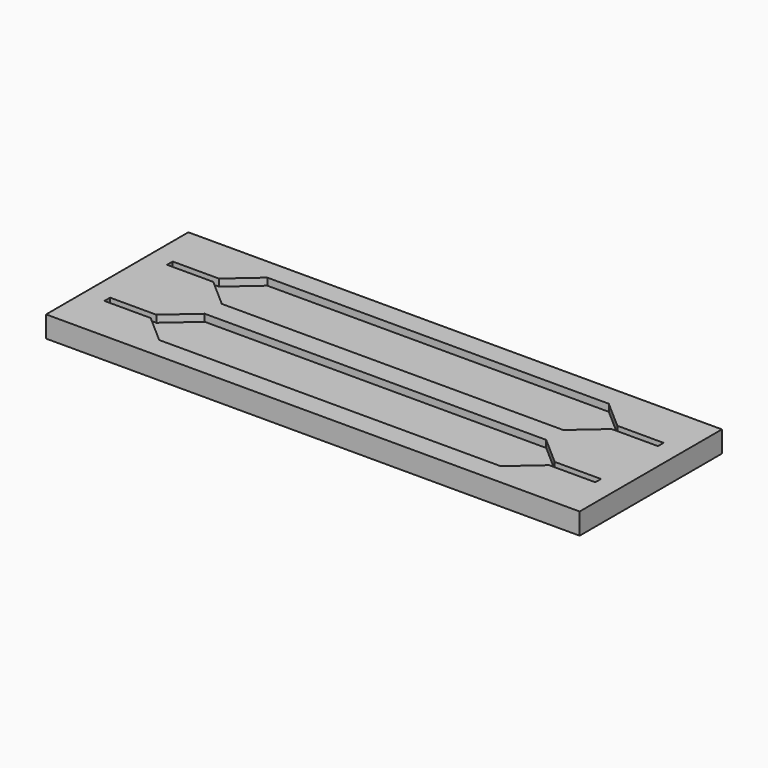
from build123d import *

# Parameters (mm, degrees)
F0_W     = 75
F0_H     = 25
F1_DEPTH = 3
F2_DEPTH = 1


with BuildPart() as f1:
    # F0 (on Top) → F1 (new body)
    with BuildSketch(Plane.XY):
        with Locations((-0.3449308872, 0.0735294118)):
            Rectangle(F0_W, F0_H)
        with BuildLine():
            ThreePointArc((-29.8784137004, -5.9264705882), (-37.3449308872, -5.4264705882), (-29.8784137004, -4.9264705882))
            Line((-29.8784137004, -4.9264705882), (-28.3449308872, -4.9264705882))
            Line((-28.3449308872, -4.9264705882), (-24.3449308872, -1.4264705882))
            Line((-24.3449308872, -1.4264705882), (23.6550691128, -1.4264705882))
            Line((23.6550691128, -1.4264705882), (27.6550691128, -4.9264705882))
            Line((27.6550691128, -4.9264705882), (29.1885519259, -4.9264705882))
            ThreePointArc((29.1885519259, -4.9264705882), (33.1556290351, -1.6848506549), (36.6550691128, -5.4264705882))
            ThreePointArc((36.6550691128, -5.4264705882), (33.1556290351, -9.1680905215), (29.1885519259, -5.9264705882))
            Line((29.1885519259, -5.9264705882), (27.6550691128, -5.9264705882))
            Line((27.6550691128, -5.9264705882), (23.6550691128, -9.4264705882))
            Line((23.6550691128, -9.4264705882), (-24.3449308872, -9.4264705882))
            Line((-24.3449308872, -9.4264705882), (-28.3449308872, -5.9264705882))
            Line((-28.3449308872, -5.9264705882), (-29.8784137004, -5.9264705882))
        make_face(mode=Mode.SUBTRACT)
        with BuildLine():
            ThreePointArc((-29.8784137004, 5.0735294118), (-37.3449308872, 5.5735294118), (-29.8784137004, 6.0735294118))
            Line((-29.8784137004, 6.0735294118), (-28.3449308872, 6.0735294118))
            Line((-28.3449308872, 6.0735294118), (-24.3449308872, 9.5735294118))
            Line((-24.3449308872, 9.5735294118), (23.6550691128, 9.5735294118))
            Line((23.6550691128, 9.5735294118), (27.6550691128, 6.0735294118))
            Line((27.6550691128, 6.0735294118), (29.1885519259, 6.0735294118))
            ThreePointArc((29.1885519259, 6.0735294118), (33.1556290351, 9.3151493451), (36.6550691128, 5.5735294118))
            ThreePointArc((36.6550691128, 5.5735294118), (33.1556290351, 1.8319094785), (29.1885519259, 5.0735294118))
            Line((29.1885519259, 5.0735294118), (27.6550691128, 5.0735294118))
            Line((27.6550691128, 5.0735294118), (23.6550691128, 1.5735294118))
            Line((23.6550691128, 1.5735294118), (-24.3449308872, 1.5735294118))
            Line((-24.3449308872, 1.5735294118), (-28.3449308872, 5.0735294118))
            Line((-28.3449308872, 5.0735294118), (-29.8784137004, 5.0735294118))
        make_face(mode=Mode.SUBTRACT)
        Polygon((-24.3449308872, -1.4264705882), (-28.3449308872, -4.9264705882), (-28.3449308872, -5.9264705882), (-24.3449308872, -9.4264705882), (23.6550691128, -9.4264705882), (27.6550691128, -5.9264705882), (27.6550691128, -4.9264705882), (23.6550691128, -1.4264705882), align=None)
        Polygon((-24.3449308872, 9.5735294118), (-28.3449308872, 6.0735294118), (-28.3449308872, 5.0735294118), (-24.3449308872, 1.5735294118), (23.6550691128, 1.5735294118), (27.6550691128, 5.0735294118), (27.6550691128, 6.0735294118), (23.6550691128, 9.5735294118), align=None)
        with BuildLine():
            ThreePointArc((36.6550691128, 5.5735294118), (33.1556290351, 9.3151493451), (29.1885519259, 6.0735294118))
            Line((29.1885519259, 6.0735294118), (31.2280181297, 6.0735294118))
            ThreePointArc((31.2280181297, 6.0735294118), (33.1577158815, 7.3051961263), (34.6550691128, 5.5735294118))
            ThreePointArc((34.6550691128, 5.5735294118), (33.1577158815, 3.8418626972), (31.2280181297, 5.0735294118))
            Line((31.2280181297, 5.0735294118), (29.1885519259, 5.0735294118))
            ThreePointArc((29.1885519259, 5.0735294118), (33.1556290351, 1.8319094785), (36.6550691128, 5.5735294118))
        make_face()
        with BuildLine():
            ThreePointArc((34.6550691128, 5.5735294118), (33.1577158815, 7.3051961263), (31.2280181297, 6.0735294118))
            Line((31.2280181297, 6.0735294118), (34.1550691128, 6.0735294118))
            Line((34.1550691128, 6.0735294118), (34.1550691128, 5.0735294118))
            Line((34.1550691128, 5.0735294118), (31.2280181297, 5.0735294118))
            ThreePointArc((31.2280181297, 5.0735294118), (33.1577158815, 3.8418626972), (34.6550691128, 5.5735294118))
        make_face()
        with BuildLine():
            Line((34.1550691128, 6.0735294118), (31.2280181297, 6.0735294118))
            ThreePointArc((31.2280181297, 6.0735294118), (31.1550691128, 5.5735294118), (31.2280181297, 5.0735294118))
            Line((31.2280181297, 5.0735294118), (34.1550691128, 5.0735294118))
            Line((34.1550691128, 5.0735294118), (34.1550691128, 6.0735294118))
        make_face()
        with BuildLine():
            Line((31.2280181297, 6.0735294118), (29.1885519259, 6.0735294118))
            ThreePointArc((29.1885519259, 6.0735294118), (29.1550691128, 5.5735294118), (29.1885519259, 5.0735294118))
            Line((29.1885519259, 5.0735294118), (31.2280181297, 5.0735294118))
            ThreePointArc((31.2280181297, 5.0735294118), (31.1550691128, 5.5735294118), (31.2280181297, 6.0735294118))
        make_face()
        with BuildLine():
            ThreePointArc((36.6550691128, -5.4264705882), (33.1556290351, -1.6848506549), (29.1885519259, -4.9264705882))
            Line((29.1885519259, -4.9264705882), (31.2280181297, -4.9264705882))
            ThreePointArc((31.2280181297, -4.9264705882), (33.1577158815, -3.6948038737), (34.6550691128, -5.4264705882))
            ThreePointArc((34.6550691128, -5.4264705882), (33.1577158815, -7.1581373028), (31.2280181297, -5.9264705882))
            Line((31.2280181297, -5.9264705882), (29.1885519259, -5.9264705882))
            ThreePointArc((29.1885519259, -5.9264705882), (33.1556290351, -9.1680905215), (36.6550691128, -5.4264705882))
        make_face()
        with BuildLine():
            ThreePointArc((34.6550691128, -5.4264705882), (33.1577158815, -3.6948038737), (31.2280181297, -4.9264705882))
            Line((31.2280181297, -4.9264705882), (34.1550691128, -4.9264705882))
            Line((34.1550691128, -4.9264705882), (34.1550691128, -5.9264705882))
            Line((34.1550691128, -5.9264705882), (31.2280181297, -5.9264705882))
            ThreePointArc((31.2280181297, -5.9264705882), (33.1577158815, -7.1581373028), (34.6550691128, -5.4264705882))
        make_face()
        with BuildLine():
            Line((34.1550691128, -4.9264705882), (31.2280181297, -4.9264705882))
            ThreePointArc((31.2280181297, -4.9264705882), (31.1550691128, -5.4264705882), (31.2280181297, -5.9264705882))
            Line((31.2280181297, -5.9264705882), (34.1550691128, -5.9264705882))
            Line((34.1550691128, -5.9264705882), (34.1550691128, -4.9264705882))
        make_face()
        with BuildLine():
            Line((31.2280181297, -4.9264705882), (29.1885519259, -4.9264705882))
            ThreePointArc((29.1885519259, -4.9264705882), (29.1550691128, -5.4264705882), (29.1885519259, -5.9264705882))
            Line((29.1885519259, -5.9264705882), (31.2280181297, -5.9264705882))
            ThreePointArc((31.2280181297, -5.9264705882), (31.1550691128, -5.4264705882), (31.2280181297, -4.9264705882))
        make_face()
        with BuildLine():
            ThreePointArc((-31.9178799041, -5.9264705882), (-35.3449308872, -5.4264705882), (-31.9178799041, -4.9264705882))
            Line((-31.9178799041, -4.9264705882), (-29.8784137004, -4.9264705882))
            ThreePointArc((-29.8784137004, -4.9264705882), (-37.3449308872, -5.4264705882), (-29.8784137004, -5.9264705882))
            Line((-29.8784137004, -5.9264705882), (-31.9178799041, -5.9264705882))
        make_face()
        with BuildLine():
            Line((-29.8784137004, -4.9264705882), (-31.9178799041, -4.9264705882))
            ThreePointArc((-31.9178799041, -4.9264705882), (-31.8632641727, -5.1738238195), (-31.8449308872, -5.4264705882))
            ThreePointArc((-31.8449308872, -5.4264705882), (-31.8632641727, -5.679117357), (-31.9178799041, -5.9264705882))
            Line((-31.9178799041, -5.9264705882), (-29.8784137004, -5.9264705882))
            ThreePointArc((-29.8784137004, -5.9264705882), (-29.8533109539, -5.6770305106), (-29.8449308872, -5.4264705882))
            ThreePointArc((-29.8449308872, -5.4264705882), (-29.8533109539, -5.1759106659), (-29.8784137004, -4.9264705882))
        make_face()
        with BuildLine():
            Line((-34.8449308872, -5.9264705882), (-34.8449308872, -4.9264705882))
            Line((-34.8449308872, -4.9264705882), (-31.9178799041, -4.9264705882))
            ThreePointArc((-31.9178799041, -4.9264705882), (-35.3449308872, -5.4264705882), (-31.9178799041, -5.9264705882))
            Line((-31.9178799041, -5.9264705882), (-34.8449308872, -5.9264705882))
        make_face()
        with BuildLine():
            Line((-31.9178799041, -4.9264705882), (-34.8449308872, -4.9264705882))
            Line((-34.8449308872, -4.9264705882), (-34.8449308872, -5.9264705882))
            Line((-34.8449308872, -5.9264705882), (-31.9178799041, -5.9264705882))
            ThreePointArc((-31.9178799041, -5.9264705882), (-31.8632641727, -5.679117357), (-31.8449308872, -5.4264705882))
            ThreePointArc((-31.8449308872, -5.4264705882), (-31.8632641727, -5.1738238195), (-31.9178799041, -4.9264705882))
        make_face()
        with BuildLine():
            ThreePointArc((-31.9178799041, 5.0735294118), (-35.3449308872, 5.5735294118), (-31.9178799041, 6.0735294118))
            Line((-31.9178799041, 6.0735294118), (-29.8784137004, 6.0735294118))
            ThreePointArc((-29.8784137004, 6.0735294118), (-37.3449308872, 5.5735294118), (-29.8784137004, 5.0735294118))
            Line((-29.8784137004, 5.0735294118), (-31.9178799041, 5.0735294118))
        make_face()
        with BuildLine():
            Line((-29.8784137004, 6.0735294118), (-31.9178799041, 6.0735294118))
            ThreePointArc((-31.9178799041, 6.0735294118), (-31.8632641727, 5.8261761805), (-31.8449308872, 5.5735294118))
            ThreePointArc((-31.8449308872, 5.5735294118), (-31.8632641727, 5.320882643), (-31.9178799041, 5.0735294118))
            Line((-31.9178799041, 5.0735294118), (-29.8784137004, 5.0735294118))
            ThreePointArc((-29.8784137004, 5.0735294118), (-29.8533109539, 5.3229694894), (-29.8449308872, 5.5735294118))
            ThreePointArc((-29.8449308872, 5.5735294118), (-29.8533109539, 5.8240893341), (-29.8784137004, 6.0735294118))
        make_face()
        with BuildLine():
            Line((-34.8449308872, 5.0735294118), (-34.8449308872, 6.0735294118))
            Line((-34.8449308872, 6.0735294118), (-31.9178799041, 6.0735294118))
            ThreePointArc((-31.9178799041, 6.0735294118), (-35.3449308872, 5.5735294118), (-31.9178799041, 5.0735294118))
            Line((-31.9178799041, 5.0735294118), (-34.8449308872, 5.0735294118))
        make_face()
        with BuildLine():
            Line((-31.9178799041, 6.0735294118), (-34.8449308872, 6.0735294118))
            Line((-34.8449308872, 6.0735294118), (-34.8449308872, 5.0735294118))
            Line((-34.8449308872, 5.0735294118), (-31.9178799041, 5.0735294118))
            ThreePointArc((-31.9178799041, 5.0735294118), (-31.8632641727, 5.320882643), (-31.8449308872, 5.5735294118))
            ThreePointArc((-31.8449308872, 5.5735294118), (-31.8632641727, 5.8261761805), (-31.9178799041, 6.0735294118))
        make_face()
        with BuildLine():
            Line((29.1885519259, 6.0735294118), (27.6550691128, 6.0735294118))
            Line((27.6550691128, 6.0735294118), (27.6550691128, 5.0735294118))
            Line((27.6550691128, 5.0735294118), (29.1885519259, 5.0735294118))
            ThreePointArc((29.1885519259, 5.0735294118), (29.1550691128, 5.5735294118), (29.1885519259, 6.0735294118))
        make_face()
        with BuildLine():
            Line((29.1885519259, -4.9264705882), (27.6550691128, -4.9264705882))
            Line((27.6550691128, -4.9264705882), (27.6550691128, -5.9264705882))
            Line((27.6550691128, -5.9264705882), (29.1885519259, -5.9264705882))
            ThreePointArc((29.1885519259, -5.9264705882), (29.1550691128, -5.4264705882), (29.1885519259, -4.9264705882))
        make_face()
        with BuildLine():
            Line((-28.3449308872, 6.0735294118), (-29.8784137004, 6.0735294118))
            ThreePointArc((-29.8784137004, 6.0735294118), (-29.8533109539, 5.8240893341), (-29.8449308872, 5.5735294118))
            ThreePointArc((-29.8449308872, 5.5735294118), (-29.8533109539, 5.3229694894), (-29.8784137004, 5.0735294118))
            Line((-29.8784137004, 5.0735294118), (-28.3449308872, 5.0735294118))
            Line((-28.3449308872, 5.0735294118), (-28.3449308872, 6.0735294118))
        make_face()
        with BuildLine():
            Line((-28.3449308872, -4.9264705882), (-29.8784137004, -4.9264705882))
            ThreePointArc((-29.8784137004, -4.9264705882), (-29.8533109539, -5.1759106659), (-29.8449308872, -5.4264705882))
            ThreePointArc((-29.8449308872, -5.4264705882), (-29.8533109539, -5.6770305106), (-29.8784137004, -5.9264705882))
            Line((-29.8784137004, -5.9264705882), (-28.3449308872, -5.9264705882))
            Line((-28.3449308872, -5.9264705882), (-28.3449308872, -4.9264705882))
        make_face()
    extrude(amount=-F1_DEPTH)

    # F0 (on Top) → F2 (cut)
    with BuildSketch(Plane.XY):
        Polygon((-24.3449308872, -1.4264705882), (-28.3449308872, -4.9264705882), (-28.3449308872, -5.9264705882), (-24.3449308872, -9.4264705882), (23.6550691128, -9.4264705882), (27.6550691128, -5.9264705882), (27.6550691128, -4.9264705882), (23.6550691128, -1.4264705882), align=None)
        Polygon((-24.3449308872, 9.5735294118), (-28.3449308872, 6.0735294118), (-28.3449308872, 5.0735294118), (-24.3449308872, 1.5735294118), (23.6550691128, 1.5735294118), (27.6550691128, 5.0735294118), (27.6550691128, 6.0735294118), (23.6550691128, 9.5735294118), align=None)
        with BuildLine():
            Line((31.2280181297, -4.9264705882), (29.1885519259, -4.9264705882))
            ThreePointArc((29.1885519259, -4.9264705882), (29.1550691128, -5.4264705882), (29.1885519259, -5.9264705882))
            Line((29.1885519259, -5.9264705882), (31.2280181297, -5.9264705882))
            ThreePointArc((31.2280181297, -5.9264705882), (31.1550691128, -5.4264705882), (31.2280181297, -4.9264705882))
        make_face()
        with BuildLine():
            Line((34.1550691128, -4.9264705882), (31.2280181297, -4.9264705882))
            ThreePointArc((31.2280181297, -4.9264705882), (31.1550691128, -5.4264705882), (31.2280181297, -5.9264705882))
            Line((31.2280181297, -5.9264705882), (34.1550691128, -5.9264705882))
            Line((34.1550691128, -5.9264705882), (34.1550691128, -4.9264705882))
        make_face()
        with BuildLine():
            Line((31.2280181297, 6.0735294118), (29.1885519259, 6.0735294118))
            ThreePointArc((29.1885519259, 6.0735294118), (29.1550691128, 5.5735294118), (29.1885519259, 5.0735294118))
            Line((29.1885519259, 5.0735294118), (31.2280181297, 5.0735294118))
            ThreePointArc((31.2280181297, 5.0735294118), (31.1550691128, 5.5735294118), (31.2280181297, 6.0735294118))
        make_face()
        with BuildLine():
            Line((34.1550691128, 6.0735294118), (31.2280181297, 6.0735294118))
            ThreePointArc((31.2280181297, 6.0735294118), (31.1550691128, 5.5735294118), (31.2280181297, 5.0735294118))
            Line((31.2280181297, 5.0735294118), (34.1550691128, 5.0735294118))
            Line((34.1550691128, 5.0735294118), (34.1550691128, 6.0735294118))
        make_face()
        with BuildLine():
            Line((-31.9178799041, -4.9264705882), (-34.8449308872, -4.9264705882))
            Line((-34.8449308872, -4.9264705882), (-34.8449308872, -5.9264705882))
            Line((-34.8449308872, -5.9264705882), (-31.9178799041, -5.9264705882))
            ThreePointArc((-31.9178799041, -5.9264705882), (-31.8632641727, -5.679117357), (-31.8449308872, -5.4264705882))
            ThreePointArc((-31.8449308872, -5.4264705882), (-31.8632641727, -5.1738238195), (-31.9178799041, -4.9264705882))
        make_face()
        with BuildLine():
            Line((-29.8784137004, -4.9264705882), (-31.9178799041, -4.9264705882))
            ThreePointArc((-31.9178799041, -4.9264705882), (-31.8632641727, -5.1738238195), (-31.8449308872, -5.4264705882))
            ThreePointArc((-31.8449308872, -5.4264705882), (-31.8632641727, -5.679117357), (-31.9178799041, -5.9264705882))
            Line((-31.9178799041, -5.9264705882), (-29.8784137004, -5.9264705882))
            ThreePointArc((-29.8784137004, -5.9264705882), (-29.8533109539, -5.6770305106), (-29.8449308872, -5.4264705882))
            ThreePointArc((-29.8449308872, -5.4264705882), (-29.8533109539, -5.1759106659), (-29.8784137004, -4.9264705882))
        make_face()
        with BuildLine():
            Line((-29.8784137004, 6.0735294118), (-31.9178799041, 6.0735294118))
            ThreePointArc((-31.9178799041, 6.0735294118), (-31.8632641727, 5.8261761805), (-31.8449308872, 5.5735294118))
            ThreePointArc((-31.8449308872, 5.5735294118), (-31.8632641727, 5.320882643), (-31.9178799041, 5.0735294118))
            Line((-31.9178799041, 5.0735294118), (-29.8784137004, 5.0735294118))
            ThreePointArc((-29.8784137004, 5.0735294118), (-29.8533109539, 5.3229694894), (-29.8449308872, 5.5735294118))
            ThreePointArc((-29.8449308872, 5.5735294118), (-29.8533109539, 5.8240893341), (-29.8784137004, 6.0735294118))
        make_face()
        with BuildLine():
            Line((-31.9178799041, 6.0735294118), (-34.8449308872, 6.0735294118))
            Line((-34.8449308872, 6.0735294118), (-34.8449308872, 5.0735294118))
            Line((-34.8449308872, 5.0735294118), (-31.9178799041, 5.0735294118))
            ThreePointArc((-31.9178799041, 5.0735294118), (-31.8632641727, 5.320882643), (-31.8449308872, 5.5735294118))
            ThreePointArc((-31.8449308872, 5.5735294118), (-31.8632641727, 5.8261761805), (-31.9178799041, 6.0735294118))
        make_face()
        with BuildLine():
            Line((-28.3449308872, 6.0735294118), (-29.8784137004, 6.0735294118))
            ThreePointArc((-29.8784137004, 6.0735294118), (-29.8533109539, 5.8240893341), (-29.8449308872, 5.5735294118))
            ThreePointArc((-29.8449308872, 5.5735294118), (-29.8533109539, 5.3229694894), (-29.8784137004, 5.0735294118))
            Line((-29.8784137004, 5.0735294118), (-28.3449308872, 5.0735294118))
            Line((-28.3449308872, 5.0735294118), (-28.3449308872, 6.0735294118))
        make_face()
        with BuildLine():
            Line((-28.3449308872, -4.9264705882), (-29.8784137004, -4.9264705882))
            ThreePointArc((-29.8784137004, -4.9264705882), (-29.8533109539, -5.1759106659), (-29.8449308872, -5.4264705882))
            ThreePointArc((-29.8449308872, -5.4264705882), (-29.8533109539, -5.6770305106), (-29.8784137004, -5.9264705882))
            Line((-29.8784137004, -5.9264705882), (-28.3449308872, -5.9264705882))
            Line((-28.3449308872, -5.9264705882), (-28.3449308872, -4.9264705882))
        make_face()
        with BuildLine():
            Line((29.1885519259, 6.0735294118), (27.6550691128, 6.0735294118))
            Line((27.6550691128, 6.0735294118), (27.6550691128, 5.0735294118))
            Line((27.6550691128, 5.0735294118), (29.1885519259, 5.0735294118))
            ThreePointArc((29.1885519259, 5.0735294118), (29.1550691128, 5.5735294118), (29.1885519259, 6.0735294118))
        make_face()
        with BuildLine():
            Line((29.1885519259, -4.9264705882), (27.6550691128, -4.9264705882))
            Line((27.6550691128, -4.9264705882), (27.6550691128, -5.9264705882))
            Line((27.6550691128, -5.9264705882), (29.1885519259, -5.9264705882))
            ThreePointArc((29.1885519259, -5.9264705882), (29.1550691128, -5.4264705882), (29.1885519259, -4.9264705882))
        make_face()
    extrude(amount=-F2_DEPTH, mode=Mode.SUBTRACT)


solid = f1.part
